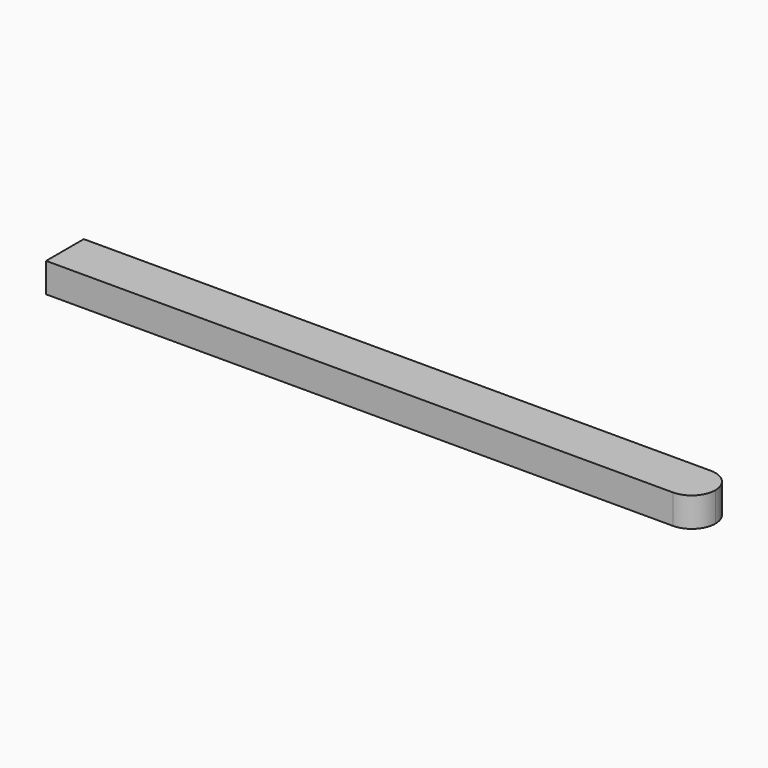
from build123d import *

# Parameters (mm, degrees)
F1_DEPTH = 5


with BuildPart() as f1:
    # F0 (on Top) → F1 (new body)
    with BuildSketch(Plane.XY):
        with BuildLine():
            Line((-60.935616, 8), (-60.935616, 0))
            Line((-60.935616, 0), (45.438304, 0))
            ThreePointArc((45.438304, 0), (48.266731, 1.171573), (49.438304, 4))
            ThreePointArc((49.438304, 4), (48.266731, 6.828427), (45.438304, 8))
            Line((45.438304, 8), (-60.935616, 8))
        make_face()
    extrude(amount=F1_DEPTH)


solid = f1.part
